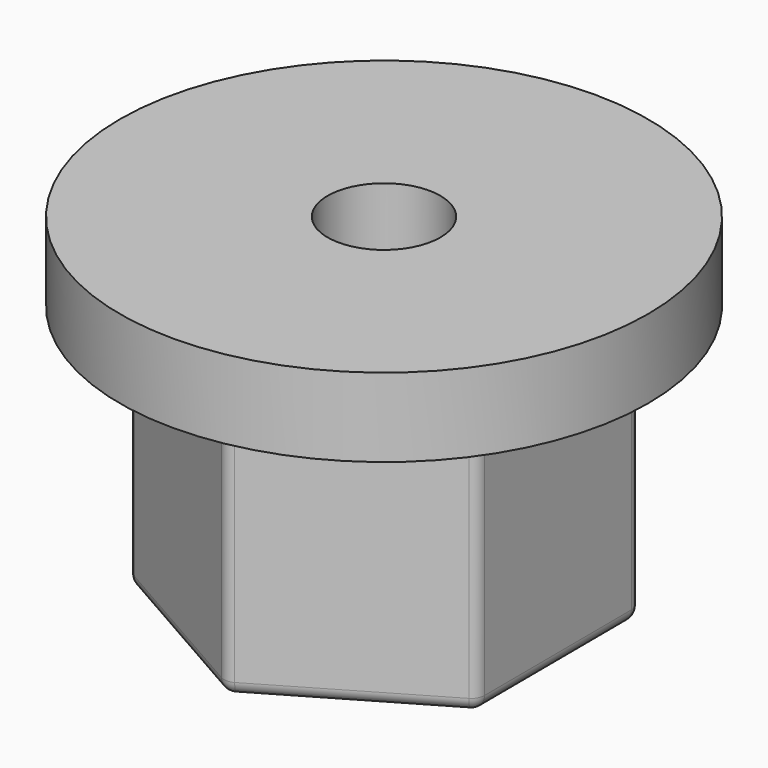
from build123d import *

# Parameters (mm, degrees)
F1_DEPTH = 10
F2_R     = 10.061919
F3_DEPTH = 3
F4_R     = 2.15
F5_DEPTH = 25
F6_R     = 0.5


with BuildPart() as f1:
    # F0 (on Top) → F1 (new body)
    with BuildSketch(Plane.XY):
        Polygon((6.580053, 3.844854), (-0.039715, 7.62092), (-6.619768, 3.776066), (-6.580053, -3.844854), (0.039715, -7.62092), (6.619768, -3.776066), align=None)
    extrude(amount=F1_DEPTH)

    # F2 (on face) → F3 (join)
    with BuildSketch(Plane.XY.offset(10)):
        Circle(F2_R)
    extrude(amount=F3_DEPTH)

    # F4 (on face) → F5 (cut)
    with BuildSketch(Plane.XY.offset(13)):
        Circle(F4_R)
    extrude(amount=-F5_DEPTH, mode=Mode.SUBTRACT)

    # F6
    f6_edges = [f1.edges().sort_by_distance(p)[0] for p in [
        (-0.039715, 7.62092, 5),
        (6.580053, 3.844854, 5),
        (6.619768, -3.776066, 5),
        (0.039715, -7.62092, 5),
        (-6.580053, -3.844854, 5),
        (-6.619768, 3.776066, 5),
        (-3.329741, 5.698493, 0),
        (-6.59991, -0.034394, 0),
        (-3.270169, -5.732887, 0),
        (3.329741, -5.698493, 0),
        (6.59991, 0.034394, 0),
        (3.270169, 5.732887, 0),
        (-2.15, 0, 0),
    ]]
    fillet(f6_edges, radius=F6_R)


solid = f1.part
